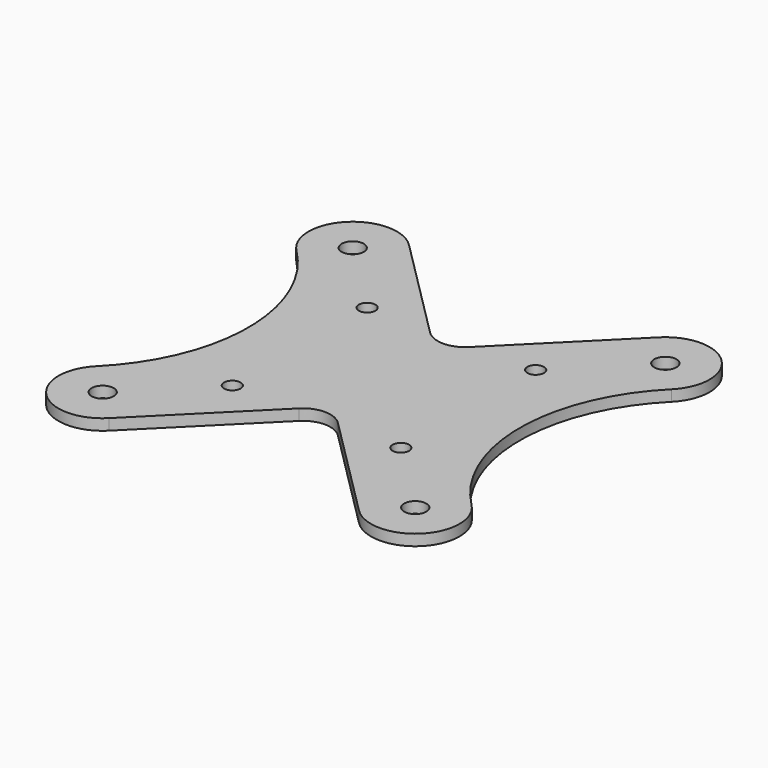
from build123d import *

# Parameters (mm, degrees)
SKETCH_R      = 2
SKETCH_R_2    = 1.5
EXTRUDE_DEPTH = 2


with BuildPart() as part:
    # Sketch → Extrude (new body)
    with BuildSketch(Plane.XY):
        with BuildLine():
            ThreePointArc((-22.627417, 33.941125), (-33.941125, 33.941125), (-33.941125, 22.627417))
            ThreePointArc((-33.941125, -22.627417), (-24.568542, 0), (-33.941125, 22.627417))
            ThreePointArc((-33.941125, -22.627417), (-33.941125, -33.941125), (-22.627417, -33.941125))
            Line((-22.627417, -33.941125), (-3.535534, -14.849242))
            ThreePointArc((3.535534, -14.849242), (0, -13.384776), (-3.535534, -14.849242))
            Line((3.535534, -14.849242), (22.627417, -33.941125))
            ThreePointArc((22.627417, -33.941125), (33.941125, -33.941125), (33.941125, -22.627417))
            ThreePointArc((33.941125, 22.627417), (24.568542, 0), (33.941125, -22.627417))
            ThreePointArc((33.941125, 22.627417), (33.941125, 33.941125), (22.627417, 33.941125))
            Line((3.535534, 14.849242), (22.627417, 33.941125))
            ThreePointArc((-3.535534, 14.849242), (0, 13.384776), (3.535534, 14.849242))
            Line((-22.627417, 33.941125), (-3.535534, 14.849242))
        make_face()
        with Locations((28.284271, 28.284271)):
            Circle(SKETCH_R, mode=Mode.SUBTRACT)
        with Locations((28.284271, -28.284271)):
            Circle(SKETCH_R, mode=Mode.SUBTRACT)
        with Locations((-28.284271, -28.284271)):
            Circle(SKETCH_R, mode=Mode.SUBTRACT)
        with Locations((-28.284271, 28.284271)):
            Circle(SKETCH_R, mode=Mode.SUBTRACT)
        with Locations((15.25, 15.25)):
            Circle(SKETCH_R_2, mode=Mode.SUBTRACT)
        with Locations((-15.25, 15.25)):
            Circle(SKETCH_R_2, mode=Mode.SUBTRACT)
        with Locations((-15.25, -15.25)):
            Circle(SKETCH_R_2, mode=Mode.SUBTRACT)
        with Locations((15.25, -15.25)):
            Circle(SKETCH_R_2, mode=Mode.SUBTRACT)
    extrude(amount=EXTRUDE_DEPTH)


solid = part.part
